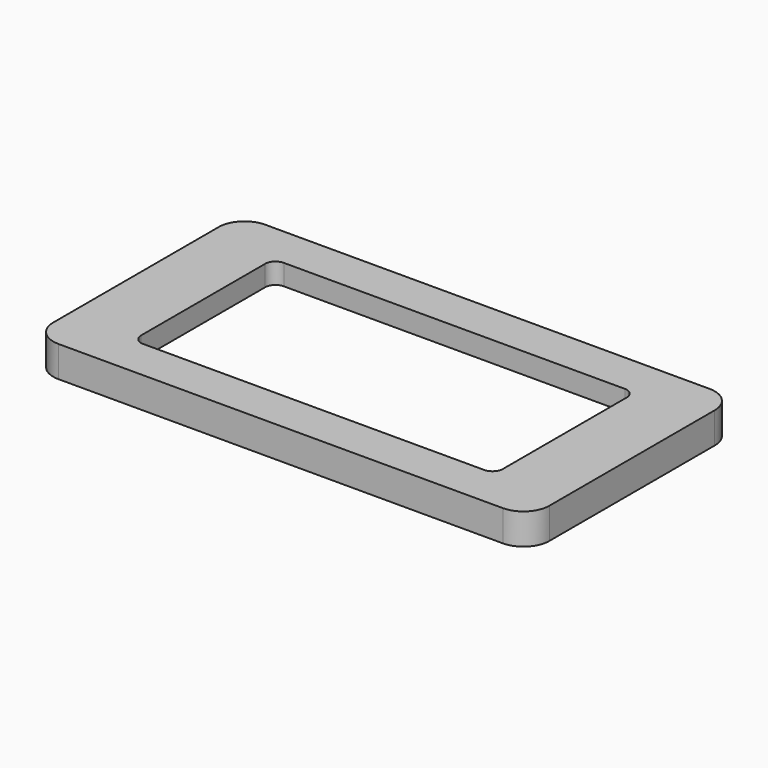
from build123d import *

# Parameters (mm, degrees)
F0_W     = 96
F0_H     = 50
F1_DEPTH = 6
F2_R     = 5
F3_W     = 76
F3_H     = 45
F4_DEPTH = 2
F6_DEPTH = 25


with BuildPart() as f1:
    # F0 (on Top) → F1 (new body)
    with BuildSketch(Plane.XY):
        with Locations((48, 25)):
            Rectangle(F0_W, F0_H)
    extrude(amount=F1_DEPTH)

    # F2
    f2_edges = [f1.edges().sort_by_distance(p)[0] for p in [
        (96, 50, 3),
        (96, 0, 3),
        (0, 50, 3),
        (0, 0, 3),
    ]]
    fillet(f2_edges, radius=F2_R)

    # F3 (on Top) → F4 (cut)
    with BuildSketch(Plane.XY):
        with Locations((48, 27.5)):
            Rectangle(F3_W, F3_H)
    extrude(amount=F4_DEPTH, mode=Mode.SUBTRACT)

    # F5 (on face) → F6 (cut)
    with BuildSketch(Plane.XY.offset(6)):
        with BuildLine():
            Line((81, 42), (15, 42))
            ThreePointArc((15, 42), (13.585786, 41.414214), (13, 40))
            Line((13, 40), (13, 10))
            ThreePointArc((13, 10), (13.585786, 8.585786), (15, 8))
            Line((15, 8), (81, 8))
            ThreePointArc((81, 8), (82.414214, 8.585786), (83, 10))
            Line((83, 10), (83, 40))
            ThreePointArc((83, 40), (82.414214, 41.414214), (81, 42))
        make_face()
    extrude(amount=-F6_DEPTH, mode=Mode.SUBTRACT)


solid = f1.part
